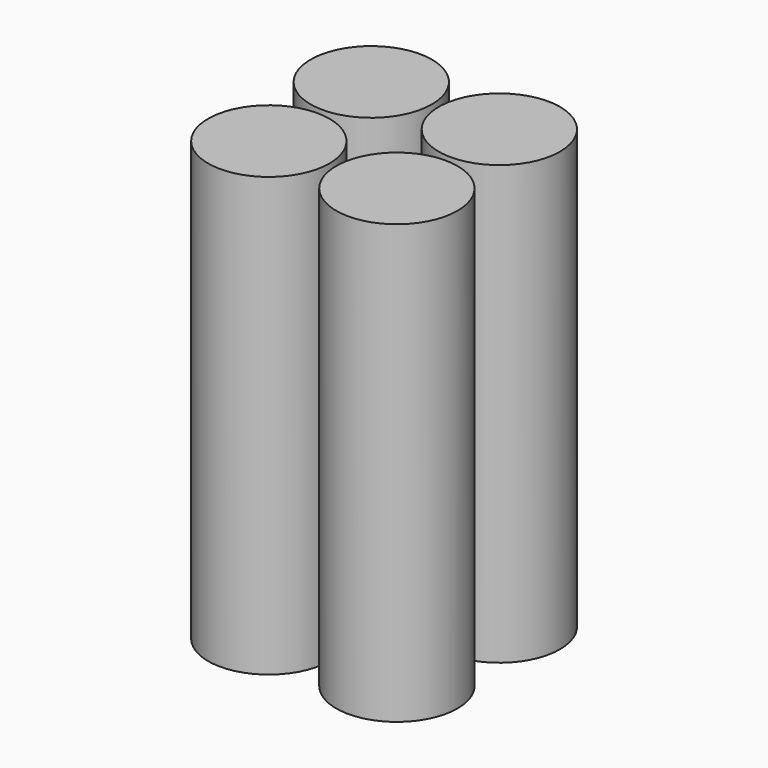
from build123d import *

# Parameters (mm, degrees)
CYLINDER001_R     = 9
CYLINDER001_DEPTH = 65
CYLINDER002_R     = 9
CYLINDER002_DEPTH = 65
CYLINDER003_R     = 9
CYLINDER003_DEPTH = 65
CYLINDER_R        = 9
CYLINDER_DEPTH    = 65


with BuildPart() as cylinder001:
    # Cylinder001 → Cylinder001 (new body)
    with BuildSketch(Plane(origin=(19, 0, -45), x_dir=(1, 0, 0), z_dir=(0, 0, 1))):
        Circle(CYLINDER001_R)
    extrude(amount=CYLINDER001_DEPTH)


with BuildPart() as cylinder002:
    # Cylinder002 → Cylinder002 (new body)
    with BuildSketch(Plane(origin=(19, 19, -45), x_dir=(1, 0, 0), z_dir=(0, 0, 1))):
        Circle(CYLINDER002_R)
    extrude(amount=CYLINDER002_DEPTH)


with BuildPart() as cylinder003:
    # Cylinder003 → Cylinder003 (new body)
    with BuildSketch(Plane(origin=(0, 19, -45), x_dir=(1, 0, 0), z_dir=(0, 0, 1))):
        Circle(CYLINDER003_R)
    extrude(amount=CYLINDER003_DEPTH)


with BuildPart() as fusion:
    # Cylinder → Cylinder (new body)
    with BuildSketch(Plane.XY.offset(-45)):
        Circle(CYLINDER_R)
    extrude(amount=CYLINDER_DEPTH)

    # Fusion: union Cylinder001, Cylinder002, Cylinder003
    add(cylinder001.part)
    add(cylinder002.part)
    add(cylinder003.part)


with BuildPart() as fusion_1:
    # Fusion placement: moved
    add(fusion.part.moved(Location((-20, 1, 14))))


solid = fusion_1.part
